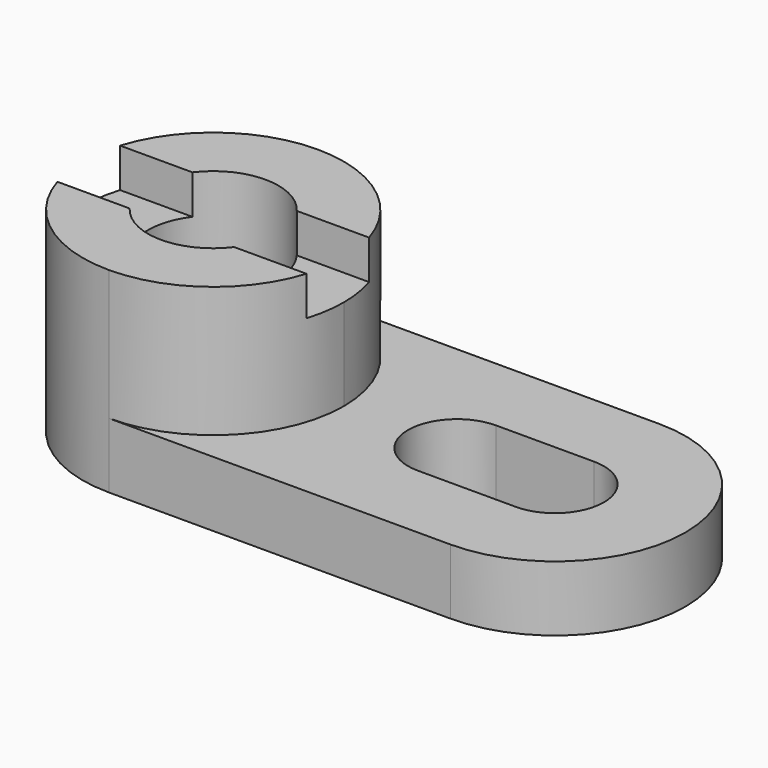
from build123d import *

# Parameters (mm, degrees)
F1_DEPTH = 10
F3_DEPTH = 20
F4_R     = 10
F5_DEPTH = 50
F7_DEPTH = 6
F9_DEPTH = 25


with BuildPart() as f1:
    # F0 (on Top) → F1 (new body)
    with BuildSketch(Plane.XY):
        with BuildLine():
            Line((52.3521453142, 20), (0, 20))
            ThreePointArc((0, 20), (-20, 0), (0, -20))
            Line((0, -20), (52.3521453142, -20))
            ThreePointArc((52.3521453142, -20), (72.3521453142, 0), (52.3521453142, 20))
        make_face()
    extrude(amount=F1_DEPTH)

    # F2 (on face) → F3 (join)
    with BuildSketch(Plane.XY.offset(10)):
        with BuildLine():
            ThreePointArc((0, -20), (14.1421356237, -14.1421356237), (20, 0))
            ThreePointArc((20, 0), (14.1421356237, 14.1421356237), (0, 20))
            ThreePointArc((0, 20), (-20, 0), (0, -20))
        make_face()
    extrude(amount=F3_DEPTH)

    # F4 (on face) → F5 (cut)
    with BuildSketch(Plane.XY.offset(30)):
        Circle(F4_R)
    extrude(amount=-F5_DEPTH, mode=Mode.SUBTRACT)

    # F6 (on face) → F7 (cut)
    with BuildSketch(Plane.XY.offset(30)):
        with BuildLine():
            Line((24.870807305, 6.0082398243), (19.0761907679, 6.0082398243))
            ThreePointArc((19.0761907679, 6.0082398243), (19.7676985934, 3.0394230244), (20, 0))
            ThreePointArc((20, 0), (19.7690094284, -3.0308853852), (19.0813733782, -5.9917601757))
            Line((19.0813733782, -5.9917601757), (24.870807305, -5.9917601757))
            Line((24.870807305, -5.9917601757), (24.870807305, 6.0082398243))
        make_face()
        with BuildLine():
            Line((-7.9938134963, 6.0082398243), (-19.0761907679, 6.0082398243))
            ThreePointArc((-19.0761907679, 6.0082398243), (-19.9999981348, 0.008637683), (-19.0813733782, -5.9917601757))
            Line((-19.0813733782, -5.9917601757), (-8.006173243, -5.9917601757))
            ThreePointArc((-8.006173243, -5.9917601757), (-9.9999946957, 0.0102997835), (-7.9938134963, 6.0082398243))
        make_face()
        with BuildLine():
            Line((7.9938134963, 6.0082398243), (-7.9938134963, 6.0082398243))
            ThreePointArc((-7.9938134963, 6.0082398243), (-9.9999946957, 0.0102997835), (-8.006173243, -5.9917601757))
            Line((-8.006173243, -5.9917601757), (8.006173243, -5.9917601757))
            ThreePointArc((8.006173243, -5.9917601757), (9.4884596334, -3.1573935113), (10, 0))
            ThreePointArc((10, 0), (9.4852025535, 3.1671647445), (7.9938134963, 6.0082398243))
        make_face()
        with BuildLine():
            ThreePointArc((20, 0), (19.7676985934, 3.0394230244), (19.0761907679, 6.0082398243))
            Line((19.0761907679, 6.0082398243), (7.9938134963, 6.0082398243))
            ThreePointArc((7.9938134963, 6.0082398243), (9.4852025535, 3.1671647445), (10, 0))
            ThreePointArc((10, 0), (9.4884596334, -3.1573935113), (8.006173243, -5.9917601757))
            Line((8.006173243, -5.9917601757), (19.0813733782, -5.9917601757))
            ThreePointArc((19.0813733782, -5.9917601757), (19.7690094284, -3.0308853852), (20, 0))
        make_face()
    extrude(amount=-F7_DEPTH, mode=Mode.SUBTRACT)

    # F8 (on face) → F9 (cut)
    with BuildSketch(Plane.XY.offset(10)):
        with BuildLine():
            Line((52.3521453142, 7.5), (37.3521453142, 7.5))
            ThreePointArc((37.3521453142, 7.5), (29.8521453142, 0), (37.3521453142, -7.5))
            Line((37.3521453142, -7.5), (52.3521453142, -7.5))
            ThreePointArc((52.3521453142, -7.5), (59.8521453142, 0), (52.3521453142, 7.5))
        make_face()
    extrude(amount=-F9_DEPTH, mode=Mode.SUBTRACT)


solid = f1.part
